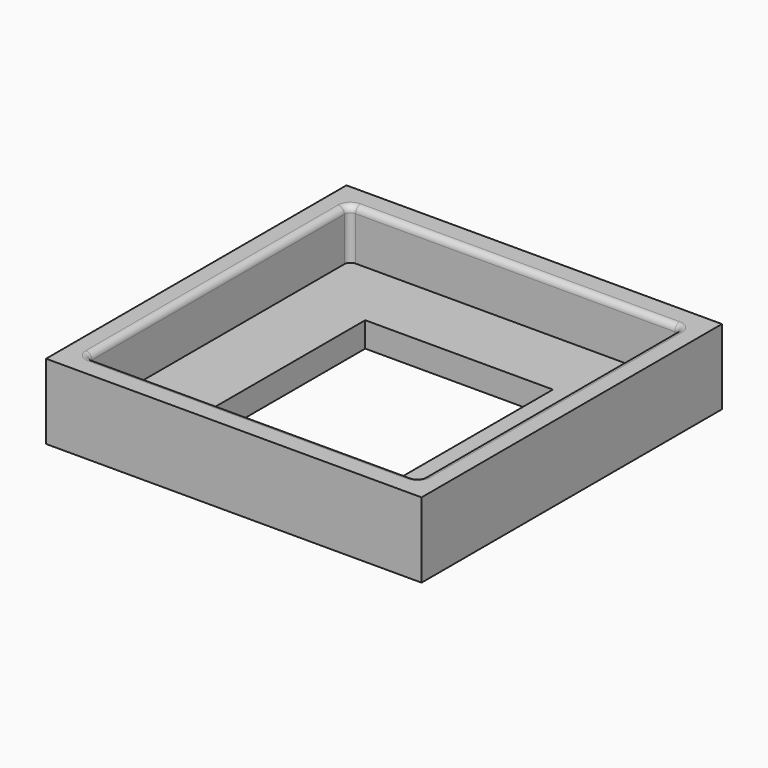
from build123d import *

# Parameters (mm, degrees)
F0_W     = 30
F0_H     = 30
F0_W_2   = 26
F0_H_2   = 26
F1_DEPTH = 2
F2_W     = 30
F2_H     = 30
F2_W_2   = 26.5
F2_H_2   = 26.2
F3_DEPTH = 4
F4_R     = 0.5
F5_W     = 15
F5_H     = 15
F6_DEPTH = 25


with BuildPart() as f1:
    # F0 (on Top) → F1 (new body)
    with BuildSketch(Plane.XY):
        Rectangle(F0_W, F0_H)
        Rectangle(F0_W_2, F0_H_2, mode=Mode.SUBTRACT)
        Rectangle(F0_W_2, F0_H_2)
    extrude(amount=F1_DEPTH)

    # F2 (on face) → F3 (join)
    with BuildSketch(Plane.XY.offset(2)):
        Rectangle(F2_W, F2_H)
        Rectangle(F2_W_2, F2_H_2, mode=Mode.SUBTRACT)
    extrude(amount=F3_DEPTH)

    # F4
    f4_edges = [f1.edges().sort_by_distance(p)[0] for p in [
        (-13.25, 0, 6),
        (0, 13.1, 6),
        (13.25, 0, 6),
        (0, -13.1, 6),
        (-13.25, 13.1, 4),
        (-13.25, -13.1, 4),
        (13.25, 13.1, 4),
        (13.25, -13.1, 4),
    ]]
    fillet(f4_edges, radius=F4_R)

    # F5 (on face) → F6 (cut)
    with BuildSketch(Plane.XY.offset(2)):
        Rectangle(F5_W, F5_H)
    extrude(amount=-F6_DEPTH, mode=Mode.SUBTRACT)


solid = f1.part
